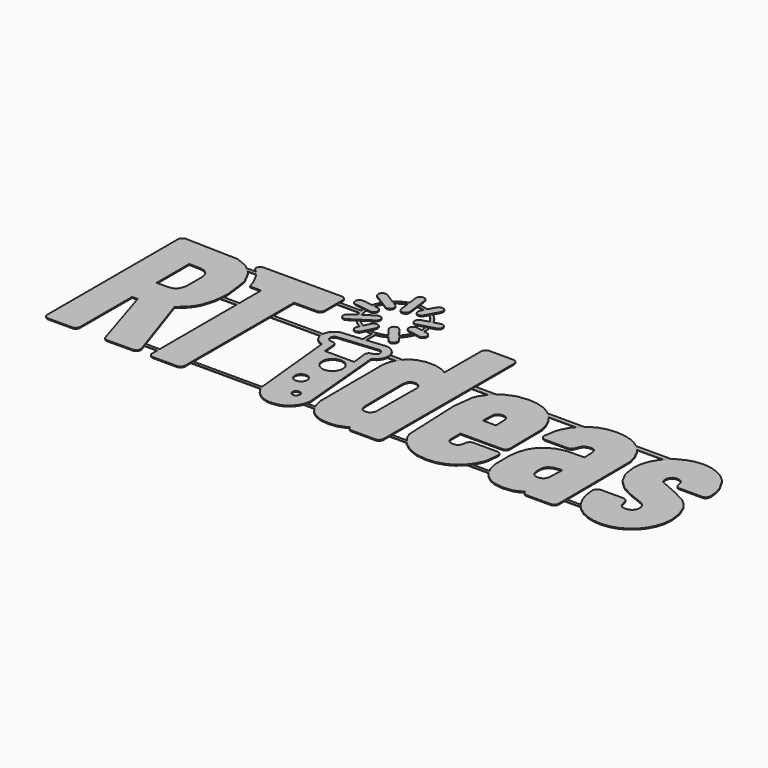
from build123d import *

# Parameters (mm, degrees)
F1_W     = 192.8681507707
F1_H     = 73.1623694301
F2_DEPTH = 0.3
F0_W     = 192.8681507707
F0_H     = 73.1623694301
F3_DEPTH = 0.3
F4_W     = 137.9440203309
F4_H     = 0.9535327554
F4_W_2   = 91.3534360006
F4_H_2   = 1.4011473395
F4_W_3   = 32.4200242758
F4_H_3   = 1.1415991466
F5_DEPTH = 0.1


with BuildPart() as f2:
    # F1 (on Top) → F2 (new body)
    with BuildSketch(Plane.XY):
        with Locations((-0.7586441934, -0.6025582552)):
            Rectangle(F1_W, F1_H)
    extrude(amount=F2_DEPTH)

    # F0 (on Top) → F3 (cut)
    with BuildSketch(Plane.XY):
        with Locations((-0.7586441934, -0.6025582552)):
            Rectangle(F0_W, F0_H)
        Polygon((-69.1185463374, -8.1850977948), (-61.8798445699, -29.6784376461), (-61.8570327656, -29.9067817273), (-61.8735335753, -30.1367804102), (-62.0159649478, -30.5892371322), (-62.1317328201, -30.7874728867), (-62.2765692421, -30.9628425877), (-62.4504018814, -31.1155180245), (-62.8679673022, -31.3274336283), (-70.9947200423, -31.3804080085), (-71.217241372, -31.3274336283), (-71.4248532031, -31.2391339531), (-71.8046521132, -30.9628425877), (-71.958132247, -30.7874728867), (-72.0778241475, -30.5892371322), (-78.3986740281, -10.4581137118), (-80.0563137221, -10.4581137118), (-80.0829862638, -30.2199896987), (-80.163058138, -30.4907566834), (-80.2964841371, -30.7411169134), (-80.4832552195, -30.9710523056), (-80.7084799695, -31.157823388), (-80.9573031378, -31.2913126778), (-81.2296704751, -31.3713935936), (-88.8439397122, -31.3713935936), (-89.1182057728, -31.2913126778), (-89.3681952997, -31.157823388), (-89.5938450021, -30.9710523056), (-89.783373754, -30.7411169134), (-89.918825058, -30.4907566834), (-90, -30.2199896987), (-90, 19.400196322), (-89.918825058, 19.6709723483), (-89.783373754, 19.9213235367), (-89.5938450021, 20.1512679704), (-89.3681952997, 20.3381023436), (-89.1182057728, 20.4715283427), (-88.8439397122, 20.5516002169), (-72.691600018, 20.0909337771), (-69.0322086763, 18.5596043905), (-66.2777940693, 15.9844744711), (-64.4282386569, 12.3654988112), (-64.4282386569, 12.3529853205), (-64.2586917073, 11.7815781043), (-64.258266755, 11.7784497316), (-64.2571636871, 11.7753213589), (-64.2524440035, 11.7690013228), (-63.3608306643, 4.7241863293), (-63.7265880635, 0.4215798644), (-64.8237879289, -3.218552998), (-64.8237879289, -3.2122962527), (-65.749921866, -4.9044565447), (-66.9711716539, -6.4019434488), (-66.9585948724, -6.4019434488), align=None, mode=Mode.SUBTRACT)
        Polygon((-40.4273453528, 19.6709723483), (-40.3449317198, 19.400196322), (-40.3174635227, 19.1090044994), (-40.3449317198, 12.219134369), (-40.4273453528, 11.9495247013), (-40.56469538, 11.7011264854), (-40.7569818015, 11.4739487628), (-40.9822608008, 11.2816623413), (-41.2310206783, 11.1443123141), (-41.5033337663, 11.0618986811), (-48.4611420248, 11.034430484), (-48.4878145665, -30.2199896987), (-48.5678954822, -30.4907566834), (-48.7013214813, -30.7411169134), (-48.8880925637, -30.9710523056), (-49.1180912466, -31.157823388), (-49.3684424351, -31.2913126778), (-49.6392184614, -31.3713935936), (-57.2189671006, -31.3713935936), (-57.4917051409, -31.2913126778), (-57.743222688, -31.157823388), (-57.9735920741, -30.9710523056), (-58.1603631564, -30.7411169134), (-58.2937891555, -30.4907566834), (-58.3738700713, -30.2199896987), (-58.4005426129, 11.034430484), (-61.8099444277, 11.034430484), (-62.2620304465, 12.6543579166), (-64.013855858, 16.2097534704), (-65.1864802462, 17.6448808762), (-66.556788855, 18.8515918685), (-66.529691361, 19.400196322), (-66.4484440867, 19.6709723483), (-66.3130560735, 19.9213235367), (-66.1235273216, 20.1512679704), (-65.8959156051, 20.3381023436), (-65.6463600721, 20.4715283427), (-65.3747250995, 20.5516002169), (-41.5033337663, 20.5516002169), (-41.2310206783, 20.4715283427), (-40.9822608008, 20.3381023436), (-40.7569818015, 20.1512679704), (-40.56469538, 19.9213235367), align=None, mode=Mode.SUBTRACT)
        Polygon((-18.8873421159, -31.8082807844), (-21.0477185333, -32.1088486835), (-22.2166630149, -32.0097624516), (-23.3277235604, -31.7133536607), (-24.377102723, -31.2210418325), (-25.3610573056, -30.5342916963), (-26.3360517224, -29.5657981464), (-27.0737599755, -28.4662655639), (-27.5719578459, -27.2399253892), (-30.1844202821, -1.3287627346), (-31.0594152716, -1.0402743324), (-31.8588049074, -0.5259463553), (-32.3903570172, 0.0050542206), (-32.796946009, 0.6148518137), (-33.0738612407, 1.294432009), (-33.2162926132, 2.03488889), (-33.2173414317, 2.7881124249), (-33.0752626793, 3.5080269281), (-32.7929677316, 4.1849669939), (-32.3735578368, 4.809176801), (-31.837213711, 5.3434232896), (-31.2246584483, 5.7511243908), (-30.5442916391, 6.0281571625), (-17.4502617375, 7.2849040346), (-16.7324177469, 7.1434491484), (-16.0589134661, 6.8602229222), (-15.4349568221, 6.4368889991), (-14.9008911643, 5.9036822875), (-14.4924576984, 5.2922933835), (-14.2144484405, 4.6117367019), (-14.0716373234, 3.8710899486), (-14.071212371, 3.1159676904), (-14.215361636, 2.3950676593), (-14.5012279918, 1.7181908844), (-15.2488005644, 0.7458275555), (-15.9928198121, 0.1943478925), (-16.4091013343, -0.0052440929), (-14.0487622283, -25.9429527076), (-14.3048276698, -27.2417608217), (-14.8200688423, -28.4613560079), (-15.5931566395, -29.5974977841), (-16.5615959402, -30.5723746609), (-17.6610019412, -31.3100196232), align=None, mode=Mode.SUBTRACT)
        Polygon((37.2262967753, -18.7586990912), (37.4185831968, -18.9863108077), (37.555933224, -19.2358663407), (37.638346857, -19.5074380225), (37.2208989762, -23.3552550483), (36.8747074685, -24.453684563), (36.8652590597, -24.4709177374), (36.8628088025, -24.4783317998), (36.8620764378, -24.4850767883), (35.830843645, -26.5225153925), (34.4322078927, -28.2774058859), (32.6944872829, -29.7561225538), (30.6586490312, -30.8768756297), (30.6523922859, -30.8768756297), (28.3385357347, -31.5738607886), (25.7297532052, -31.8061921888), (22.3156317068, -31.4121709369), (19.4068780197, -30.2302247214), (17.0146674868, -28.3857506542), (15.2503285846, -26.023395285), (14.5361102513, -24.3154755895), (13.7920910037, -6.6719147781), (14.5361102513, -0.6363797193), (15.2503285846, 1.0698853744), (17.0115933634, 3.4636962597), (19.4068780197, 5.3143637815), (22.3156317068, 6.5010929714), (25.7297532052, 6.8966422435), (28.3479841436, 6.6580631395), (30.6900412565, 5.9422444537), (30.6962980019, 5.9296767137), (32.7667201423, 4.7775314126), (34.4950013849, 3.2549180701), (35.852796503, 1.4324511101), (36.8747074685, -0.6819309956), (36.8777725504, -0.7007554809), (36.8872119177, -0.7195799662), (37.4711959154, -3.016085803), (37.638346857, -15.4171721138), (37.555933224, -15.6899101542), (37.4185831968, -15.9414367428), (37.2262967753, -16.1718603781), (37.001017776, -16.3586314605), (36.7521946077, -16.4920574596), (36.4799448104, -16.5720750846), (23.7456596843, -16.5987476262), (23.7763195449, -20.3214207031), (23.8680459636, -20.7209030449), (24.0210921035, -21.0685683234), (24.2353404245, -21.3644165389), (24.5430240152, -21.567688431), (24.894613322, -21.7129498053), (25.7297532052, -21.8290793392), (26.5727321031, -21.7255175453), (26.8822601679, -21.5960155744), (27.1173492376, -21.4146965403), (27.4987394587, -20.5246202629), (27.7554197248, -19.3669596226), (27.8551207814, -19.1197368068), (28.000318865, -18.8960491185), (28.4048825519, -18.5310873747), (28.6383803107, -18.4133665298), (28.8914982102, -18.3427249814), (36.4799448104, -18.3466490095), (36.7521946077, -18.4290626425), (37.001017776, -18.5664126697), align=None, mode=Mode.SUBTRACT)
        Polygon((11.2413099503, 19.6709723483), (11.3237235833, 19.400196322), (11.3511917804, 19.1090044994), (11.3237235833, -30.2199896987), (11.2413099503, -30.4907566834), (11.1039599231, -30.7411169134), (10.9116735016, -30.9710523056), (10.6867652054, -31.157823388), (10.4391626449, -31.2913126778), (10.1687573218, -31.3713935936), (2.5521011182, -31.3713935936), (2.2813250919, -31.2913126778), (2.0310281526, -31.157823388), (1.8010927605, -30.9710523056), (1.5342407623, -30.613215295), (1.4502358184, -30.4154044929), (1.3992234523, -30.2050892415), (0.7399415133, -30.6759997456), (-1.3823609811, -31.5299008234), (-3.8436127099, -31.8061921888), (-6.2900363138, -31.5522786337), (-8.342438666, -30.7906012594), (-10.0008107247, -29.5210334841), (-11.2652248224, -27.7437018896), (-11.9088106488, -26.2148318017), (-12.3420721822, -24.2997794769), (-12.4174334143, -0.5532337217), (-11.998267641, 1.4842681733), (-11.2715448585, 3.0163299246), (-11.269944506, 3.0288976645), (-11.2652248224, 3.0414111553), (-10.0644541216, 4.5389523086), (-8.546497172, 5.7538820603), (-7.6156435512, 6.2538611141), (-5.2360007583, 6.8252140811), (-2.5698225357, 6.8256390334), (-0.3470866201, 6.2574144392), (0.6582692866, 5.7602020965), (0.6645260319, 5.7538820603), (1.3678221855, 5.3017960416), (1.394928721, 19.400196322), (1.4761127046, 19.6709723483), (1.6115007177, 19.9213235367), (1.8010927605, 20.1512679704), (2.0310281526, 20.3381023436), (2.2813250919, 20.4715283427), (2.5521011182, 20.5516002169), (10.1687573218, 20.5516002169), (10.4391626449, 20.4715283427), (10.6867652054, 20.3381023436), (10.9116735016, 20.1512679704), (11.1039599231, 19.9213235367), align=None, mode=Mode.SUBTRACT)
        Polygon((63.2269797129, -0.2612372021), (63.9097967793, -2.7382573759), (64.1103110018, -30.2199896987), (64.0291270183, -30.4907566834), (63.8937390051, -30.7411169134), (63.7041469624, -30.9710523056), (63.4742025287, -31.157823388), (63.223914631, -31.2913126778), (62.9531386047, -31.3713935936), (55.3364733596, -31.3713935936), (55.0660680364, -31.2913126778), (54.8184745175, -31.157823388), (54.5935662213, -30.9710523056), (54.4208908991, -30.7677894551), (54.2922478744, -30.5472301394), (54.2073930258, -30.3094466909), (54.1666699317, -30.0543667773), (52.6349788835, -31.0821637851), (51.5122637935, -31.4844037964), (48.6255895461, -31.8014725051), (45.8283180416, -31.3854351045), (44.2617899415, -30.7371928853), (42.8019610497, -29.6838896944), (42.7893300189, -29.6838896944), (41.535150944, -28.2444765988), (40.5603373579, -26.3247136318), (39.9058474349, -23.9920958861), (39.8241661666, -18.1057371884), (40.2354838836, -15.5250919299), (41.0313744436, -13.1218416772), (42.3121627694, -11.1739233561), (44.0686445738, -9.6292938648), (46.3368775164, -8.5241826524), (49.0069797671, -7.9339419093), (54.1540389009, -7.8461395188), (54.0300613107, -4.5653807287), (53.6579929169, -3.6015978209), (53.3931029328, -3.3763188216), (53.0505822902, -3.2154246254), (52.6303224906, -3.1189152323), (51.7022265394, -3.12559693), (51.2909088224, -3.2358404216), (50.8984879231, -3.4175301588), (50.5259222446, -3.6699699429), (50.2026600812, -4.0038378322), (49.9331137043, -4.4131302443), (49.4056664534, -5.8996316778), (49.2561736385, -6.1005708527), (48.8543043304, -6.4246919623), (48.627063317, -6.5307040134), (48.3865764482, -6.5942298703), (41.1049544924, -6.6020779266), (40.715716215, -6.4953244692), (40.3669478686, -6.2834179069), (40.0937215851, -5.9946130507), (39.9065797996, -5.6339460383), (39.8312818582, -5.2415160974), (40.5176612913, -1.3792326084), (40.9245576954, -0.2988861727), (40.9245576954, -0.2863817236), (42.013918546, 1.7464004878), (43.4486119579, 3.4872404287), (43.4494709042, 3.4931264709), (43.4517945798, 3.4982168577), (45.1690361026, 4.9109574116), (47.2285451048, 5.9736457205), (49.534427018, 6.6659111958), (52.1323054509, 6.8966422435), (54.5245159838, 6.7004317938), (56.7786531662, 6.1117914032), (56.7660221355, 6.1117914032), (58.8444189138, 5.1181533319), (60.6338842544, 3.7195718289), (62.0937221878, 1.9394825647), align=None, mode=Mode.SUBTRACT)
        Polygon((88.3298558568, -13.3526360156), (89.5824345792, -16.4496255145), (90, -19.8009625623), (89.772397325, -22.2167895964), (89.089571217, -24.4787025029), (89.089571217, -24.4724457575), (88.0346767152, -26.4911231672), (86.6408239374, -28.2649014367), (84.8921901894, -29.7404264412), (82.8232327784, -30.8768756297), (82.8107283292, -30.8895066605), (80.5283905849, -31.5769891613), (78.0262891804, -31.8061921888), (75.7721610395, -31.6147014227), (73.6310973506, -31.0401025431), (73.6059618706, -31.0401025431), (71.5999154917, -30.0606235227), (69.8359563342, -28.7291844923), (69.8323939676, -28.7232984501), (68.3615253559, -27.0546280778), (67.2140454892, -24.9747575285), (67.2140454892, -25.0061497538), (66.4150898473, -22.6171218429), (66.0901097914, -19.8323547876), (66.1340064659, -19.4525016282), (66.2784721848, -19.0915272034), (66.5156408086, -18.7759865148), (66.8248072118, -18.5326877272), (67.1810529114, -18.3725258957), (74.4704053835, -18.3419293259), (74.7220495121, -18.4102381572), (74.9571385818, -18.5240349739), (75.1756725926, -18.6834011499), (75.3620729719, -18.8796115996), (75.5069093938, -19.0977839488), (76.1437411901, -21.1940829754), (76.4188119477, -21.6846136204), (76.689587974, -21.9346031472), (77.0373707926, -22.113218761), (77.4619343651, -22.2203429215), (77.9635047298, -22.2560931688), (78.4474169678, -22.2128655683), (78.9069260905, -22.0896113012), (79.3421496381, -21.8863484507), (79.7529791119, -21.6030679752), (79.746595785, -21.6030679752), (80.0487640366, -21.2683411397), (80.2646036686, -20.8794012331), (80.3941056395, -20.43639292), (80.407469035, -19.4816244271), (80.1688266402, -18.6653090293), (79.9601026998, -18.3066673217), (79.1250893982, -17.6442660515), (74.4975028775, -15.8076400406), (74.4849984283, -15.8076400406), (71.1745020146, -14.0747024053), (68.6394170739, -11.6448429017), (66.9880341252, -8.517925907), (66.9872927189, -8.5065154841), (66.9848424617, -8.4975101107), (66.9810359736, -8.4908193714), (66.9755206345, -8.4865336817), (66.4354423528, -4.7631824893), (66.6756851001, -2.3457641442), (67.3961511372, -0.104267034), (67.3961511372, -0.1105237794), (68.5263435803, 1.9253777631), (69.9829898503, 3.6253861114), (69.9893641356, 3.6253861114), (71.6971662911, 4.9721505513), (73.7063952919, 6.0113489404), (75.8977389822, 6.6752872723), (78.2648140351, 6.8966422435), (80.6068711481, 6.6659111958), (82.7770033867, 5.9728410235), (82.7982148384, 5.961068939), (84.7634205832, 4.9109574116), (86.4273170226, 3.5312094355), (86.4281759689, 3.5249526901), (86.4305086861, 3.5186416955), (87.1301339745, 2.6992612158), (88.7818876263, -0.2110204914), (88.7818876263, -0.2172772368), (89.4458259582, -2.4211886671), (89.6671809293, -4.7631824893), (89.6400743938, -5.0570777322), (89.5588904102, -5.3298790634), (89.4235023971, -5.5813966104), (89.2340369359, -5.8117659965), (89.0064252194, -5.9957794093), (88.7567431048, -6.1272433943), (88.4852347138, -6.2060946607), (81.2676268581, -6.2072610193), (81.0023661709, -6.131963078), (80.7590583417, -6.0063851352), (80.5378299521, -5.8305904819), (80.3470173016, -5.6069027935), (80.2081935034, -5.3627993089), (80.120996896, -5.0982800279), (80.0390805478, -4.3350113426), (79.9240450401, -3.9170752187), (79.7407097428, -3.5595998697), (79.4891921957, -3.2625129633), (79.4856298291, -3.2542399546), (79.4813441394, -3.2484172032), (79.4763170434, -3.2448548366), (79.4704310011, -3.243688478), (79.1290134264, -2.9964656622), (78.7640607242, -2.8198663118), (78.3755548115, -2.7139175514), (77.9635047298, -2.6785922564), (77.5427476455, -2.7119555373), (77.1723971442, -2.8120182555), (76.8520734812, -2.9788075355), (76.5821564012, -3.2122962527), (76.563268625, -3.2499452233), (76.3215611484, -3.5741296237), (76.1487682861, -3.924923275), (76.045269783, -4.3024527587), (76.0106858942, -4.7066547841), (76.09076681, -5.31411966), (76.3058650357, -5.905951714), (76.3058650357, -5.9121994178), (76.5664602885, -6.1633553033), (82.1828386155, -8.586967103), (82.1703341663, -8.586967103), (85.8120583396, -10.5522994293), (85.8308285757, -10.5585471331), (87.2655219877, -11.881767404), (88.3298558568, -13.3651404648), align=None, mode=Mode.SUBTRACT)
        Polygon((-27.724018458, 8.8029875658), (-28.0683202839, 8.7548504092), (-28.3416641074, 8.7851395667), (-28.6098090457, 8.8782855071), (-29.008061738, 9.1783651631), (-29.2517945196, 9.5935436174), (-29.3221829049, 10.0697886299), (-29.200104038, 10.5532759155), (-27.5675998239, 13.9627410211), (-27.2673935864, 14.3609304226), (-26.8522784228, 14.6046632042), (-26.3760334103, 14.6749973403), (-25.8926094154, 14.5530360134), (-25.4943567231, 14.2529473159), (-25.2506239416, 13.837777903), (-25.1802265147, 13.361523849), (-25.3023144232, 12.8780456049), (-27.13709596, 9.1669637817), (-27.4068864585, 8.9427878502), align=None, mode=Mode.SUBTRACT)
        Polygon((-33.8278080987, 12.0836830651), (-34.1818567043, 12.0326074082), (-34.4841424959, 12.0693974326), (-34.7692674454, 12.177742201), (-35.0231177097, 12.3547665037), (-35.2315975285, 12.597522799), (-35.4181877801, 13.0599704221), (-35.4130973934, 13.5413691121), (-35.2278543312, 13.9857336561), (-34.873995598, 14.3370788413), (-29.1853844116, 18.0855655136), (-28.7229367885, 18.2720924745), (-28.2415380985, 18.2670020877), (-27.7971735545, 18.0818223163), (-27.4458283693, 17.7279635831), (-27.2592381177, 17.2655069184), (-27.2643285044, 16.7841082284), (-27.4495715666, 16.3397527259), (-27.8034302998, 15.9884075408), align=None, mode=Mode.SUBTRACT)
        Polygon((-18.0709724688, 9.5435077376), (-18.2715409405, 9.5274409218), (-18.5508973879, 9.5587156071), (-18.8173786829, 9.6515541352), (-19.059764275, 9.8045369843), (-22.6573476523, 14.4114545456), (-22.8777170957, 14.8587033408), (-22.9085035378, 15.3391797937), (-22.7568045873, 15.7960487869), (-22.4300433482, 16.1727826152), (-21.982677013, 16.3931520585), (-21.5022638508, 16.4238752099), (-21.0453858161, 16.2722395502), (-20.6687152786, 15.945478311), (-17.2781379492, 11.5502864812), (-17.0577685058, 11.1030467276), (-17.0269911052, 10.6225612331), (-17.1786900557, 10.1656922399), (-17.5054422533, 9.7889584116), (-17.6838770363, 9.673805364), (-17.8737132006, 9.5921331373), align=None, mode=Mode.SUBTRACT)
        Polygon((-14.1812750319, 16.0494740989), (-14.6042382518, 15.9755866377), (-18.4111513527, 16.7096149841), (-18.8712753001, 16.9019014056), (-19.2101160361, 17.2438614728), (-19.3960281722, 17.6879186044), (-19.3972487801, 18.1866137596), (-19.2048990678, 18.6466744163), (-18.8630022914, 18.9855061107), (-18.4189451597, 19.1714272884), (-17.9202500046, 19.172711187), (-14.3601347672, 18.4631492466), (-13.9000108197, 18.2708628251), (-13.5611791253, 17.9288937164), (-13.3752579476, 17.4848365847), (-13.3740373398, 16.9861504711), (-13.5340092989, 16.5762522758), (-13.8137997401, 16.2569050991), align=None, mode=Mode.SUBTRACT)
        Polygon((-31.1533478259, 18.8377944792), (-31.594529748, 18.7572253203), (-36.6947989147, 19.4667239699), (-37.1649137633, 19.6329526745), (-37.5223981538, 19.9554191823), (-37.732894236, 20.388382345), (-37.7621436164, 20.8861462216), (-37.5959149119, 21.3562610702), (-37.2735116948, 21.7137454608), (-36.8405485321, 21.9242415429), (-36.3427213648, 21.9534909233), (-31.420082284, 21.2565600137), (-30.9499674354, 21.0903313091), (-30.5924830449, 20.7678648013), (-30.3819869627, 20.3349106801), (-30.3527375823, 19.837137762), (-30.4976915443, 19.4039395193), (-30.7761257546, 19.0620969922), align=None, mode=Mode.SUBTRACT)
        Polygon((-29.3551754827, 22.543975788), (-29.6634106074, 22.5056487018), (-30.0059945407, 22.5534151552), (-35.2051058177, 25.7764165907), (-35.5657728301, 26.1208269151), (-35.7595963133, 26.5615115525), (-35.7740085274, 27.0427294117), (-35.5964959815, 27.5086761107), (-35.2520766156, 27.8694064139), (-34.8113919782, 28.0632298971), (-34.330174119, 28.0775788204), (-33.86422742, 27.9000662745), (-28.9918050499, 24.8234292811), (-28.6312013283, 24.4790099153), (-28.4373235958, 24.0383252778), (-28.422848091, 23.5571074186), (-28.6004239277, 23.0911607197), (-28.8087138742, 22.840068125), (-29.0652675587, 22.6565519968), align=None, mode=Mode.SUBTRACT)
        Polygon((-14.0943225461, 21.730725472), (-19.3216524679, 20.3016739808), (-19.7194711664, 20.3667368993), (-20.0722268317, 20.5514193861), (-20.3517098606, 20.8397902483), (-20.5293489881, 21.2160358334), (-20.5674229111, 21.7132481761), (-20.41707115, 22.1705511632), (-20.1061958958, 22.538143995), (-19.662690298, 22.7661264146), (-14.7777634788, 24.1474747432), (-14.2806053853, 24.1854853755), (-13.8233023982, 24.0351336144), (-13.4557095665, 23.724321651), (-13.2276728976, 23.2808160532), (-13.1896532238, 22.7836037105), (-13.3399416941, 22.3263007234), (-13.6508169483, 21.9587078917), align=None, mode=Mode.SUBTRACT)
        Polygon((-25.3671241786, 23.1562236383), (-25.5261196515, 23.1461694463), (-25.9722563373, 23.2285740377), (-26.3519919566, 23.457406362), (-26.6298203838, 23.805261513), (-26.7704253653, 24.2446532102), (-27.5866684308, 30.7056198292), (-27.5500049879, 31.2029587534), (-27.3330622881, 31.6326669618), (-26.9707406739, 31.9496723798), (-26.498175568, 32.1088486835), (-26.0011440561, 32.0725559438), (-25.5713725569, 31.8555499531), (-25.2541772666, 31.4931107989), (-25.0948743814, 31.0204191115), (-24.2786313159, 24.5594615341), (-24.3152947587, 24.0621135684), (-24.5322374586, 23.6324053599), (-24.8945590727, 23.315399942), align=None, mode=Mode.SUBTRACT)
        Polygon((-21.319290215, 24.4842268836), (-21.6515035025, 24.4395255121), (-21.9480931242, 24.4752667179), (-22.236590568, 24.5849677172), (-22.6228270543, 24.9003818242), (-22.8502488985, 25.3246922335), (-22.9019393801, 25.803333254), (-22.7610360278, 26.2816668621), (-20.7329825417, 30.1242669195), (-20.4175051439, 30.510440115), (-19.9931314438, 30.7378710007), (-19.5145537141, 30.7895614823), (-19.0362833968, 30.6487123793), (-18.6500469105, 30.3332982723), (-18.4226250663, 29.9089878629), (-18.3709345848, 29.4303468425), (-18.511837937, 28.9520132344), (-20.7451162878, 24.8248397613), (-21.0110550904, 24.6145787592), align=None, mode=Mode.SUBTRACT)
        Polygon((-73.5325626526, 7.9389057145), (-73.7727421091, 8.896431877), (-74.1855878462, 9.7409478366), (-74.6658834684, 10.2668037766), (-75.3032125494, 10.6388088796), (-76.4522294779, 10.9402447665), (-80.0563137221, 11.034430484), (-80.0563137221, -1.3098207093), (-76.2010735924, -1.2171720536), (-75.1713145705, -0.9393436264), (-74.5795458073, -0.548514038), (-74.1353078448, -0.0414825834), (-73.7601743691, 0.7936572997), (-73.5325626526, 1.7668162841), align=None)
        Polygon((-30.4450788256, 1.5923688201), (-30.2607037512, 1.4116103615), (-30.0451082408, 1.2627323713), (-29.820507357, 1.166521349), (-29.5810060159, 1.1207802005), (-28.73574865, 1.1276517705), (-28.5066722041, 1.060075304), (-28.2940875263, 0.9500126431), (-28.104368902, 0.7997874635), (-27.9301655596, 0.5914342263), (-27.8059980971, 0.3533343239), (-27.7353022994, 0.0942761328), (-27.4352768926, -3.6859734679), (-18.5791612405, -3.6859734679), (-19.0787695911, 0.9383038494), (-19.0559668284, 1.2039261981), (-18.9777213452, 1.4588162394), (-18.8455882863, 1.6937877691), (-18.6663578479, 1.8952151871), (-18.450888919, 2.052248646), (-18.2070928467, 2.1602227112), (-17.4674316211, 2.2823015781), (-17.2429482773, 2.3720117335), (-17.0434828734, 2.5079512806), (-16.8629685363, 2.6933751736), (-16.7120652413, 2.9096397579), (-16.6149410235, 3.1332641555), (-16.5689467119, 3.3714183071), (-16.5716501322, 3.6313354444), (-16.6186209301, 3.8884406629), (-16.7090634502, 4.1148227301), (-16.8461603143, 4.3164942696), (-17.0331845598, 4.4995221546), (-17.24619419, 4.6460674276), (-17.4690229321, 4.7407413882), (-17.707484496, 4.7856235905), (-29.8232017357, 3.6234240973), (-30.0505060399, 3.5332889896), (-30.2527924041, 3.3967979086), (-30.4363085323, 3.2108224817), (-30.5809008327, 2.9992866225), (-30.674715847, 2.776702002), (-30.7193539278, 2.537200661), (-30.7162888458, 2.2747609342), (-30.6696254603, 2.0179088788), (-30.580286008, 1.7925032979), align=None)
        Polygon((-18.4651112607, -8.4422572625), (-18.4676248087, -7.8189154432), (-18.5835735118, -7.2062968898), (-18.808364268, -6.6516255633), (-19.1419337864, -6.1548291315), (-19.5842730256, -5.7158623866), (-20.0993333673, -5.3648879045), (-20.6503880779, -5.1317608489), (-21.2376179883, -5.0164269704), (-21.8610230984, -5.0189405184), (-22.4735783611, -5.1348259308), (-23.0281954383, -5.3595533962), (-23.5249828286, -5.6931138731), (-23.9640128643, -6.135516403), (-24.3149873464, -6.6504592047), (-24.548114402, -7.2016314554), (-24.6634482804, -7.7888704073), (-24.6609347324, -8.4123388082), (-24.5450493201, -9.0248940708), (-24.3202585639, -9.5795653973), (-23.986698087, -10.0763527876), (-23.5442955571, -10.5152562418), (-23.0292985061, -10.8662397654), (-22.4781805047, -11.0994210702), (-21.8910138851, -11.2147639902), (-21.2675364427, -11.2121871514), (-20.65498118, -11.0963017391), (-20.1003731443, -10.8715742737), (-19.6036490448, -10.5380047552), (-19.1646190091, -10.0956112668), (-18.8136354855, -9.5806051744), (-18.5805084299, -9.0294871729), align=None)
        Polygon((-21.4053837546, -18.0367502416), (-21.4069117748, -17.6614992259), (-21.476694377, -17.2927942848), (-21.6119558086, -16.9589263955), (-21.8127684019, -16.6598865166), (-22.0790055753, -16.3956656065), (-22.3890218832, -16.1844371596), (-22.7207469276, -16.0440762997), (-23.0741807084, -15.9746644007), (-23.4494407657, -15.9761381716), (-23.8181366653, -16.0459207738), (-24.1519503053, -16.1812454962), (-24.4509901842, -16.3820580895), (-24.7152653436, -16.6482952629), (-24.926502832, -16.9582482801), (-25.0668546503, -17.2899733244), (-25.1362665494, -17.643470396), (-25.1347927785, -18.0187304533), (-25.0650192178, -18.3874263529), (-24.9296854539, -18.7212942421), (-24.7288728606, -19.0203341211), (-24.4626356871, -19.2845550312), (-24.1526193792, -19.4957925196), (-23.8208943348, -19.6361443379), (-23.4674695956, -19.705556237), (-23.0922095383, -19.7040824661), (-22.7235045972, -19.6342998639), (-22.3896999987, -19.4989751415), (-22.0906601198, -19.2981625482), (-21.8263849604, -19.0319253747), (-21.615147472, -18.7219723576), (-21.4747866121, -18.3901840225), align=None)
        Polygon((-18.1381691907, -24.8313948775), (-18.1390914277, -24.6048952703), (-18.1812159605, -24.3823739406), (-18.2628881872, -24.1808922734), (-18.3841171494, -24.0004321856), (-18.5448214733, -23.8410117603), (-18.731899968, -23.7135350943), (-18.9321067782, -23.6288520349), (-19.1454238207, -23.5869716237), (-19.3719324693, -23.5878938608), (-19.5944447575, -23.6300183935), (-19.7959354663, -23.7116906202), (-19.9763865126, -23.8328562917), (-20.1358792701, -23.9935606155), (-20.2633559362, -24.1806391103), (-20.348029954, -24.3808459204), (-20.3899103652, -24.5941629629), (-20.3889881282, -24.8206083208), (-20.3468635954, -25.0431838998), (-20.2651913687, -25.2446746086), (-20.1440347388, -25.4251889456), (-19.9833213734, -25.5846184124), (-19.7961795879, -25.7120950784), (-19.5959818193, -25.7967690963), (-19.3826557352, -25.8386495074), (-19.1561561281, -25.8377272704), (-18.9336347984, -25.7956027377), (-18.7321531311, -25.7139305109), (-18.5516930433, -25.592773881), (-18.3922726181, -25.4320605156), (-18.2647326613, -25.2449820209), (-18.1800496019, -25.0447209615), align=None)
        Polygon((1.3296849717, -4.9080189113), (1.2155174518, -4.4570902095), (1.0251840029, -4.0509261701), (0.7587027079, -3.6894635022), (0.452239725, -3.4234162011), (0.1104604886, -3.2342491107), (-0.2666350012, -3.1220436049), (-1.1542610214, -3.1200815909), (-1.5565010327, -3.220144309), (-1.8857667783, -3.3869245474), (-2.1420763413, -3.6204223062), (-2.518801128, -4.6046843011), (-2.6443790708, -5.7364047644), (-2.4984486225, -20.0412053096), (-2.0604041146, -21.201198667), (-2.0730351454, -21.1886851763), (-1.8116984864, -21.4688463207), (-1.4922337696, -21.6689807985), (-1.1146500367, -21.7890434021), (-0.679055786, -21.8290793392), (-0.2607489589, -21.7913670778), (0.115125923, -21.6721091712), (0.4486863999, -21.4711699963), (0.7399415133, -21.1886851763), (0.7210537372, -21.201198667), (1.0039725511, -20.7369608191), (1.206069043, -20.2107432176), align=None)
        Polygon((27.6949589499, -8.1349353334), (27.5631242618, -4.4570902095), (27.3983060374, -3.9991181485), (27.167629239, -3.6204223062), (26.870614665, -3.3869245474), (26.5319005105, -3.220144309), (26.1516133572, -3.1200815909), (25.7297532052, -3.0867183099), (25.3027393755, -3.1208772463), (24.9197578435, -3.2232726817), (24.5806729859, -3.3940402391), (24.2856204259, -3.6329900462), (24.2793636806, -3.6329900462), (24.0458659218, -4.0109535238), (23.8790856834, -4.4665386184), (23.7456596843, -8.1349353334), align=None)
        Polygon((54.1540389009, -16.2346538703), (53.6078304555, -16.1718603781), (51.9988794519, -16.3884323749), (50.6378926703, -17.0006259759), (50.2176238292, -17.4546740088), (49.9174175916, -18.0507375033), (49.7373914978, -18.7889249579), (49.6773014259, -19.6691278742), (49.8453022722, -20.9594188581), (50.0551292805, -21.5080233115), (50.3490878141, -21.9923062526), (50.3553445595, -22.0174417326), (50.6500264164, -22.3004238372), (51.0005126553, -22.5025203291), (51.4066766947, -22.6238035406), (51.8685185347, -22.6642192224), (52.3606495321, -22.6238035406), (52.8009001757, -22.5025203291), (53.1895326699, -22.3004238372), (53.5261582288, -22.0174417326), (53.8008582832, -21.5527879738), (53.9970687329, -21.0065795283), align=None)
    extrude(amount=F3_DEPTH, mode=Mode.SUBTRACT)

    # F4 (on Top) → F5 (join)
    with BuildSketch(Plane.XY):
        with BuildLine():
            ThreePointArc((-23.5393922776, 10.4716815266), (-17.8658884226, 13.5216012519), (-15.6017111031, 19.5518713444))
            ThreePointArc((-15.6017111031, 19.5518713444), (-25.5130839322, 28.6836222795), (-33.8040936657, 18.0589649158))
            Line((-33.8040936657, 18.0589649158), (-32.8475783162, 18.0589649158))
            ThreePointArc((-32.8475783162, 18.0589649158), (-25.5137004508, 27.7377820434), (-16.5439662538, 19.5518713444))
            ThreePointArc((-16.5439662538, 19.5518713444), (-18.5336151275, 14.1898051594), (-23.5393922776, 11.4234625312))
            Line((-23.5393922776, 11.4234625312), (-23.5393922776, 10.4716815266))
        make_face()
        with BuildLine():
            Line((-32.8475783162, 18.0589649158), (-33.8040936657, 18.0589649158))
            ThreePointArc((-33.8040936657, 18.0589649158), (-33.6918496226, 17.4914014221), (-33.5440087043, 16.9320534915))
            Line((-33.5440087043, 16.9320534915), (-32.8475783162, 16.9320534915))
            Line((-32.8475783162, 16.9320534915), (-32.8475783162, 18.0589649158))
        make_face()
        with BuildLine():
            ThreePointArc((-33.5440087043, 16.9320534915), (-33.6918496226, 17.4914014221), (-33.8040936657, 18.0589649158))
            Line((-33.8040936657, 18.0589649158), (-68.4440508485, 18.0589649158))
            Line((-68.4440508485, 18.0589649158), (-68.4440508485, 16.9320534915))
            Line((-68.4440508485, 16.9320534915), (-33.5440087043, 16.9320534915))
        make_face()
        with BuildLine():
            Line((-23.5393922776, 5.2936645225), (-23.5393922776, 10.4716815266))
            ThreePointArc((-23.5393922776, 10.4716815266), (-24.0145056861, 10.4201744817), (-24.4916584343, 10.3935102457))
            Line((-24.4916584343, 10.3935102457), (-24.4916584343, 5.2936645225))
            Line((-24.4916584343, 5.2936645225), (-23.5393922776, 5.2936645225))
        make_face()
        with BuildLine():
            ThreePointArc((-24.4916584343, 10.3935102457), (-24.0145056861, 10.4201744817), (-23.5393922776, 10.4716815266))
            Line((-23.5393922776, 10.4716815266), (-23.5393922776, 11.4234625312))
            ThreePointArc((-23.5393922776, 11.4234625312), (-24.0142558099, 11.3659874207), (-24.4916584343, 11.3362301204))
            Line((-24.4916584343, 11.3362301204), (-24.4916584343, 10.3935102457))
        make_face()
        with BuildLine():
            Line((-32.8475783162, 16.9320534915), (-33.5440087043, 16.9320534915))
            ThreePointArc((-33.5440087043, 16.9320534915), (-30.1290268621, 12.1243794254), (-24.4916584343, 10.3935102457))
            Line((-24.4916584343, 10.3935102457), (-24.4916584343, 11.3362301204))
            ThreePointArc((-24.4916584343, 11.3362301204), (-29.9169560229, 13.1472383612), (-32.8475783162, 18.0589649158))
            Line((-32.8475783162, 18.0589649158), (-32.8475783162, 16.9320534915))
        make_face()
        with Locations((3.6701671779, -27.3495223373)):
            Rectangle(F4_W, F4_H)
        with Locations((30.1438919269, 3.8452541921)):
            Rectangle(F4_W_2, F4_H_2)
        with Locations((-48.297226429, 2.5738809491)):
            Rectangle(F4_W_3, F4_H_3)
    extrude(amount=F5_DEPTH)


solid = f2.part
